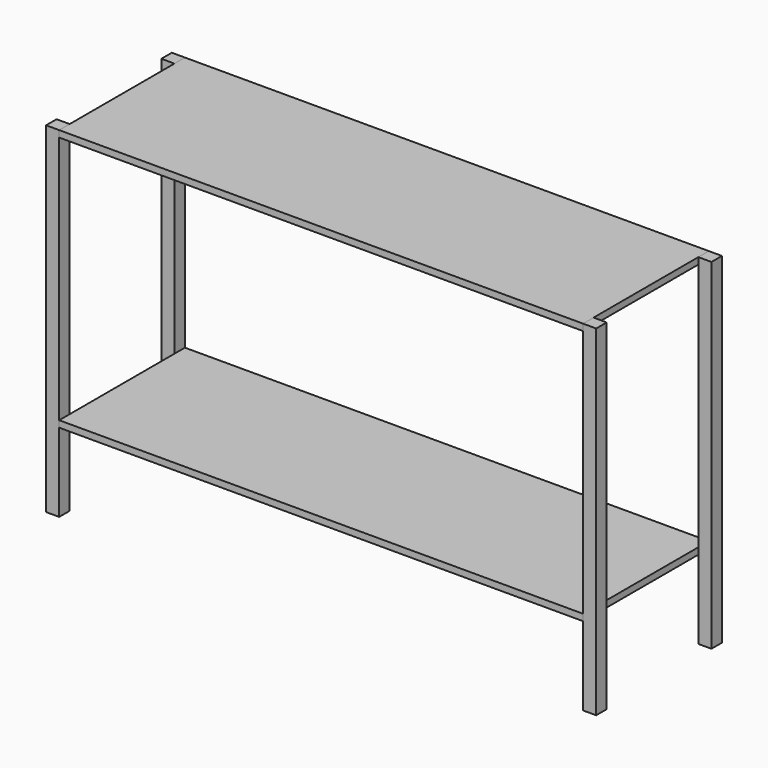
from build123d import *

# Parameters (mm, degrees)
F2_W     = 50
F2_H     = 50
F5_DEPTH = 1300
F3_W     = 2000
F3_H     = 600
F6_DEPTH = 25
F4_W     = 2000
F4_H     = 600
F7_DEPTH = 25


with BuildPart() as f5:
    # F2 (on Top) → F5 (new body)
    with BuildSketch(Plane.XY):
        with Locations((-1025, 275)):
            Rectangle(F2_W, F2_H)
        with Locations((-1025, -275)):
            Rectangle(F2_W, F2_H)
        with Locations((1025, -275)):
            Rectangle(F2_W, F2_H)
        with Locations((1025, 275)):
            Rectangle(F2_W, F2_H)
    extrude(amount=F5_DEPTH)


with BuildPart() as f6:
    # F3 (on offset) → F6 (new body)
    with BuildSketch(Plane.XY.offset(300)):
        Rectangle(F3_W, F3_H)
    extrude(amount=F6_DEPTH)


with BuildPart() as f7:
    # F4 (on offset) → F7 (new body)
    with BuildSketch(Plane.XY.offset(1300)):
        Rectangle(F4_W, F4_H)
    extrude(amount=-F7_DEPTH)


solid = Compound([f5.part, f6.part, f7.part])
